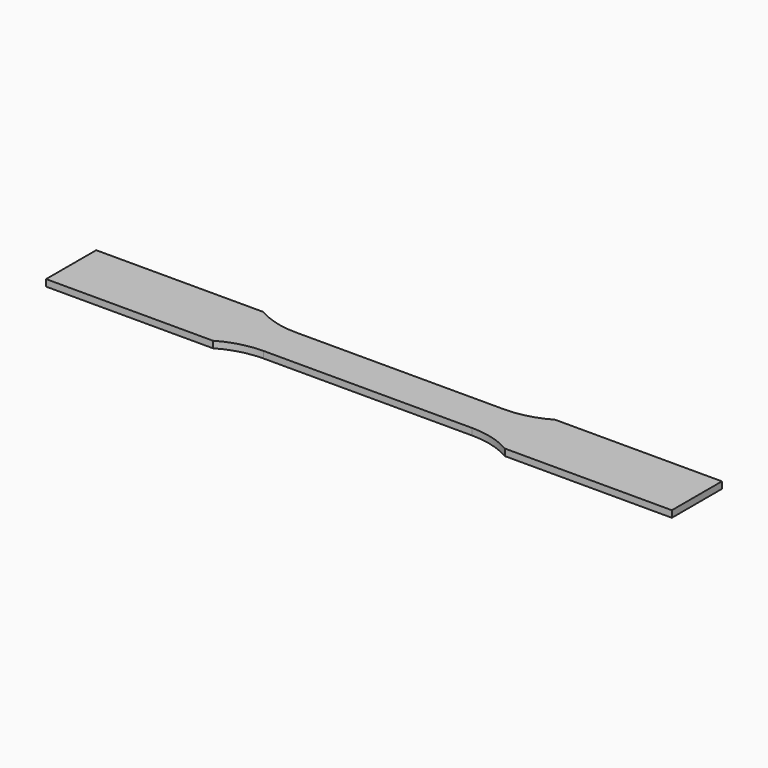
from build123d import *

# Parameters (mm, degrees)
F1_DEPTH = 1.016


with BuildPart() as f1:
    # F0 (on Top) → F1 (new body)
    with BuildSketch(Plane.XY):
        with BuildLine():
            ThreePointArc((22.225, 4.759544), (19.164267, 3.492998), (15.88012, 3.061021))
            Line((15.88012, 3.061021), (-15.86988, 3.061021))
            ThreePointArc((-15.86988, 3.061021), (-19.154026, 3.492998), (-22.214759, 4.759544))
            Line((-22.214759, 4.759544), (-47.614759, 4.759544))
            Line((-47.614759, 4.759544), (-47.625, -4.765456))
            Line((-47.625, -4.765456), (-22.235241, -4.765456))
            ThreePointArc((-22.235241, -4.765456), (-19.169978, -3.494529), (-15.88012, -3.061021))
            Line((-15.88012, -3.061021), (15.86988, -3.061021))
            ThreePointArc((15.86988, -3.061021), (19.159737, -3.494529), (22.225, -4.765456))
            Line((22.225, -4.765456), (47.625, -4.765456))
            Line((47.625, -4.765456), (47.625, 4.759544))
            Line((47.625, 4.759544), (22.225, 4.759544))
        make_face()
    extrude(amount=F1_DEPTH)


solid = f1.part
